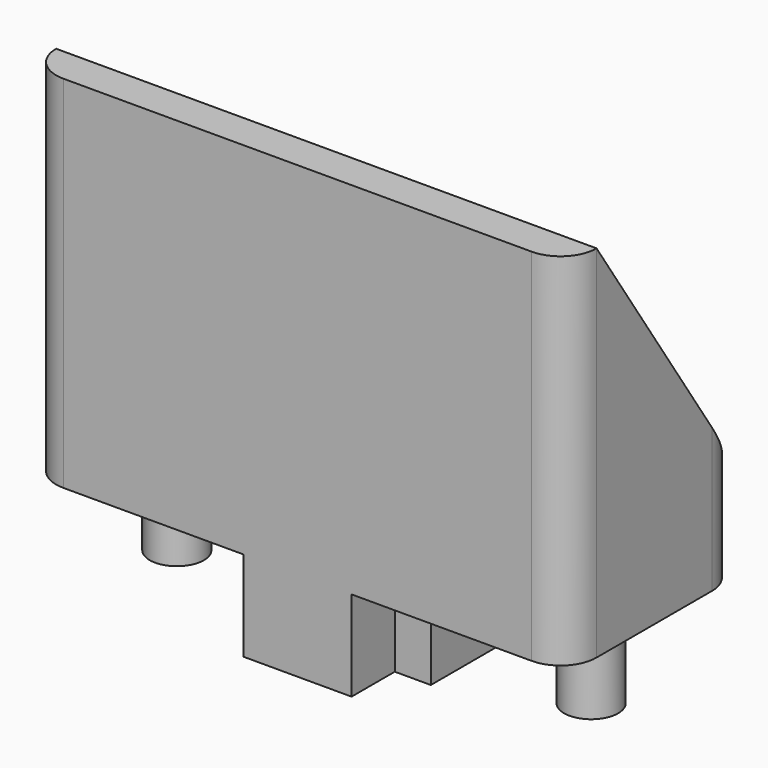
from build123d import *

# Parameters (mm, degrees)
SKETCH_W      = 30
SKETCH_H      = 12
PAD_DEPTH     = 20
PAD001_DEPTH  = 5
SKETCH002_R   = 1.5
PAD002_DEPTH  = 5
CHAMFER_SIZE2 = 15
CHAMFER_SIZE  = 10
FILLET_R      = 2


with BuildPart() as part:
    # Sketch → Pad (new body)
    with BuildSketch(Plane.XY):
        with Locations((15, 6)):
            Rectangle(SKETCH_W, SKETCH_H)
    extrude(amount=PAD_DEPTH)

    # Sketch001 (on Face5 of Pad) → Pad001 (join)
    with BuildSketch(Plane(origin=(0, 0, 0), x_dir=(1, 0, 0), z_dir=(0, 0, -1))):
        Polygon((12, 0), (18, 0), (18, -3), (20, -3), (20, -8), (10, -8), (10, -3), (12, -3), align=None)
    extrude(amount=PAD001_DEPTH)

    # Sketch002 (on Face4 of Pad001) → Pad002 (join)
    with BuildSketch(Plane(origin=(0, 0, 0), x_dir=(1, 0, 0), z_dir=(0, 0, -1))):
        with Locations((3.5, -6)):
            Circle(SKETCH002_R)
        with Locations((26.5, -6)):
            Circle(SKETCH002_R)
    extrude(amount=PAD002_DEPTH)

    # Chamfer
    chamfer_edges = [part.edges().sort_by_distance(p)[0] for p in [
        (15, 12, 20),
    ]]
    chamfer_side = part.faces().sort_by_distance((15, 6, 20))[0]
    chamfer(chamfer_edges, length=CHAMFER_SIZE, length2=CHAMFER_SIZE2, reference=chamfer_side)

    # Fillet
    fillet_edges = [part.edges().sort_by_distance(p)[0] for p in [
        (0, 12, 2.5),
        (0, 0, 10),
        (30, 12, 2.5),
        (30, 0, 10),
    ]]
    fillet(fillet_edges, radius=FILLET_R)


solid = part.part
